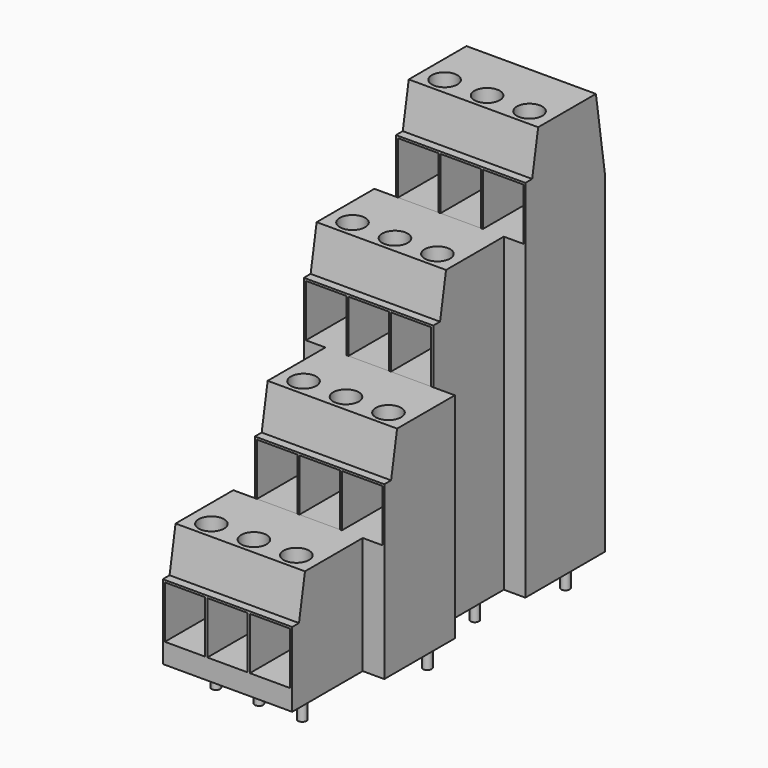
from build123d import *

# Parameters (mm, degrees)
F1_DEPTH  = 8.89
F3_DEPTH  = 2.54
F5_DEPTH  = 2.54
F6_W      = 4.75
F6_H      = 6.159577
F8_W      = 4.75
F8_H      = 6.147177
F7_W      = 4.75
F7_H      = 6.147177
F9_W      = 4.75
F9_H      = 6.147177
F10_DEPTH = 6
F11_R     = 1.5
F12_R     = 1.5
F13_R     = 1.5
F14_R     = 1.5
F15_DEPTH = 6
F16_R     = 0.5
F17_DEPTH = 3.5


with BuildPart() as f1:
    # F0 (on Right) → F1 (new body, symmetric)
    with BuildSketch(Plane.YZ):
        Polygon((10.382133, 24.079738), (1.882133, 24.079738), (1, 19.076915), (0, 19.076915), (0, 12.679738), (-8.5, 12.679738), (-9.382133, 7.676915), (-10.382133, 7.676915), (-10.382133, 1.279738), (-18.882133, 1.279738), (-19.764265, -3.723085), (-20.764265, -3.723085), (-20.764265, -10.120262), (-29.264265, -10.120262), (-30.146398, -15.123085), (-31.146398, -15.123085), (-31.146398, -23.920262), (11.753602, -23.920262), (11.753602, 14.92088), align=None)
    extrude(amount=F1_DEPTH, both=True)

    # F2 (on face) → F3 (cut)
    with BuildSketch(Plane(origin=(-8.89, 0, 0), x_dir=(0, -1, 0), z_dir=(-1, 0, 0))):
        Polygon((-11.753602, -23.920262), (0, -23.920262), (0, 12.679738), (0, 19.076915), (-1, 19.076915), (-1.882133, 24.079738), (-10.382133, 24.079738), (-11.753602, 14.92088), align=None)
        Polygon((20.764265, -23.920262), (20.764265, -10.120262), (20.764265, -3.723085), (19.764265, -3.723085), (18.882133, 1.279738), (10.382133, 1.279738), (10.382133, -23.920262), align=None)
    extrude(amount=-F3_DEPTH, mode=Mode.SUBTRACT)

    # F4 (on face) → F5 (cut)
    with BuildSketch(Plane.YZ.offset(8.89)):
        Polygon((-20.764265, -23.920262), (-20.764265, -10.120262), (-29.264265, -10.120262), (-30.146398, -15.123085), (-31.146398, -15.123085), (-31.146398, -23.920262), align=None)
        Polygon((-10.382133, 1.279738), (-10.382133, -23.920262), (0, -23.920262), (0, 12.679738), (-8.5, 12.679738), (-9.382133, 7.676915), (-10.382133, 7.676915), align=None)
    extrude(amount=-F5_DEPTH, mode=Mode.SUBTRACT)

    # F6 (on face) + F8 (on face) + F7 (on face) + F9 (on face) → F10 (cut)
    with BuildSketch(Plane.XZ.offset(31.146398)):
        with Locations((-6.265, -18.452873)):
            Rectangle(F6_W, F6_H)
        with Locations((-1.265, -18.452873)):
            Rectangle(F6_W, F6_H)
        with Locations((3.735, -18.452873)):
            Rectangle(F6_W, F6_H)
    with BuildSketch(Plane.XZ.offset(10.382133)):
        Polygon((-8.64, 7.426915), (-8.64, 1.279738), (-6.35, 1.279738), (-3.89, 1.279738), (-3.89, 7.426915), align=None)
        with Locations((-1.265, 4.353326)):
            Rectangle(F8_W, F8_H)
        with Locations((3.735, 4.353326)):
            Rectangle(F8_W, F8_H)
    with BuildSketch(Plane.XZ.offset(20.764265)):
        with Locations((-3.725, -7.046673)):
            Rectangle(F7_W, F7_H)
        with Locations((1.275, -7.046673)):
            Rectangle(F7_W, F7_H)
        Polygon((3.9, -3.973085), (3.9, -10.120262), (6.35, -10.120262), (8.65, -10.120262), (8.65, -3.973085), align=None)
    with BuildSketch(Plane.XZ):
        with Locations((-3.725, 15.753327)):
            Rectangle(F9_W, F9_H)
        with Locations((1.275, 15.753327)):
            Rectangle(F9_W, F9_H)
        Polygon((3.9, 18.826915), (3.9, 12.679738), (6.35, 12.679738), (8.65, 12.679738), (8.65, 18.826915), align=None)
    extrude(amount=-F10_DEPTH, mode=Mode.SUBTRACT)

    # F11 (on face) + F12 (on face) + F13 (on face) + F14 (on face) → F15 (cut)
    with BuildSketch(Plane.XY.offset(-10.120262)):
        with Locations((-6.265, -27.264265)):
            Circle(F11_R)
        with Locations((-1.265, -27.264265)):
            Circle(F11_R)
        with Locations((3.735, -27.264265)):
            Circle(F11_R)
    with BuildSketch(Plane.XY.offset(1.279738)):
        with Locations((-3.725, -16.882133)):
            Circle(F12_R)
        with Locations((1.275, -16.882133)):
            Circle(F12_R)
        with Locations((6.275, -16.882133)):
            Circle(F12_R)
    with BuildSketch(Plane.XY.offset(12.679738)):
        with Locations((-6.265, -6.5)):
            Circle(F13_R)
        with Locations((-1.265, -6.5)):
            Circle(F13_R)
        with Locations((3.735, -6.5)):
            Circle(F13_R)
    with BuildSketch(Plane.XY.offset(24.079738)):
        with Locations((-3.725, 3.882133)):
            Circle(F14_R)
        with Locations((1.275, 3.882133)):
            Circle(F14_R)
        with Locations((6.275, 3.882133)):
            Circle(F14_R)
    extrude(amount=-F15_DEPTH, mode=Mode.SUBTRACT)

    # F16 (on face) → F17 (join)
    with BuildSketch(Plane(origin=(0, 0, -23.920262), x_dir=(1, 0, 0), z_dir=(0, 0, -1))):
        with Locations((3.81, 26.496398)):
            Circle(F16_R)
        with Locations((-1.27, 26.496398)):
            Circle(F16_R)
        with Locations((-6.35, 26.496398)):
            Circle(F16_R)
        with Locations((6.35, 11.256398)):
            Circle(F16_R)
        with Locations((1.27, 11.256398)):
            Circle(F16_R)
        with Locations((-3.81, 11.256398)):
            Circle(F16_R)
        with Locations((-6.35, 1.096398)):
            Circle(F16_R)
        with Locations((-1.27, 1.096398)):
            Circle(F16_R)
        with Locations((3.81, 1.096398)):
            Circle(F16_R)
        with Locations((6.35, -9.063602)):
            Circle(F16_R)
        with Locations((1.27, -9.063602)):
            Circle(F16_R)
        with Locations((-3.81, -9.063602)):
            Circle(F16_R)
    extrude(amount=F17_DEPTH)


solid = f1.part
